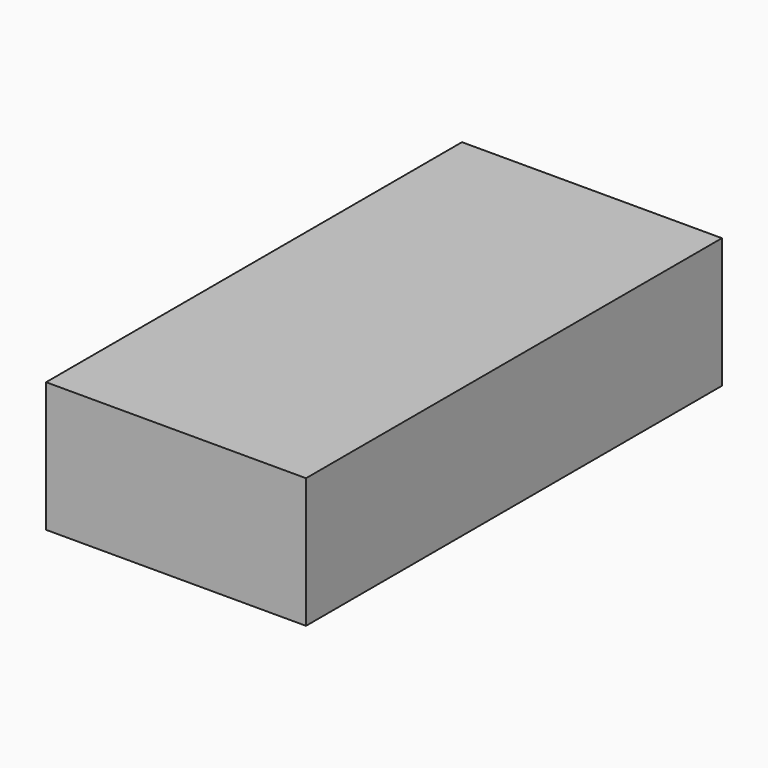
from build123d import *

# Parameters (mm, degrees)
SKETCH_W  = 80
SKETCH_H  = 160
PAD_DEPTH = 40


with BuildPart() as part:
    # Sketch → Pad (new body)
    with BuildSketch(Plane.XY):
        with Locations((-40, 80)):
            Rectangle(SKETCH_W, SKETCH_H)
    extrude(amount=PAD_DEPTH)


solid = part.part
